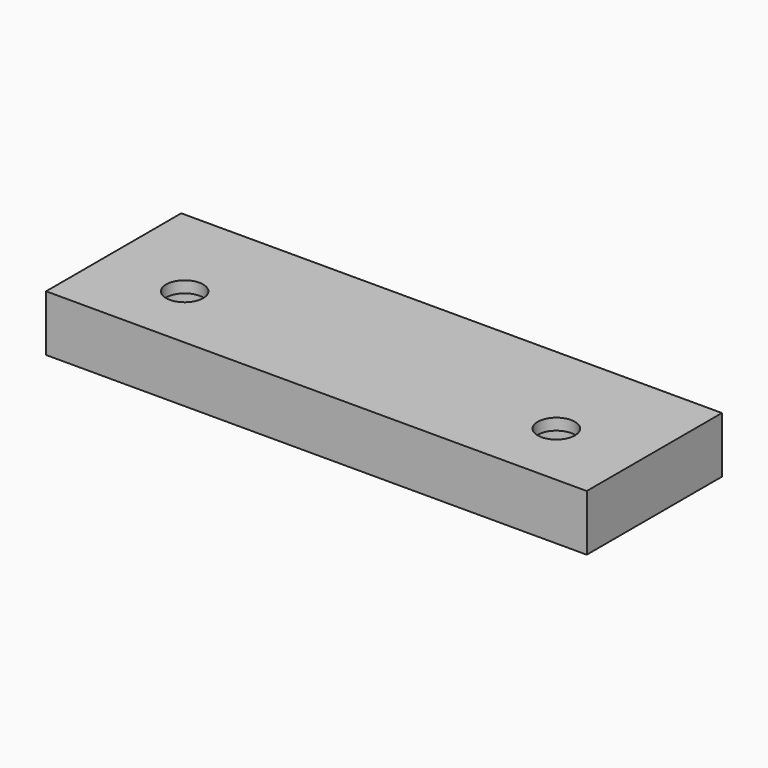
from build123d import *

# Parameters (mm, degrees)
F0_W     = 160
F0_H     = 50
F0_R     = 9
F0_R_2   = 5.5
F1_DEPTH = 16.6
F2_DEPTH = 13.2


with BuildPart() as f1:
    # F0 (on Top) → F1 (new body)
    with BuildSketch(Plane.XY):
        Rectangle(F0_W, F0_H)
        with Locations((-55, -5)):
            Circle(F0_R, mode=Mode.SUBTRACT)
        with Locations((55, -5)):
            Circle(F0_R, mode=Mode.SUBTRACT)
        with Locations((-55, -5)):
            Circle(F0_R)
        with Locations((-55, -5)):
            Circle(F0_R_2, mode=Mode.SUBTRACT)
        with Locations((55, -5)):
            Circle(F0_R)
        with Locations((55, -5)):
            Circle(F0_R_2, mode=Mode.SUBTRACT)
    extrude(amount=F1_DEPTH)

    # F0 (on Top) → F2 (cut)
    with BuildSketch(Plane.XY):
        with Locations((-55, -5)):
            Circle(F0_R)
        with Locations((-55, -5)):
            Circle(F0_R_2, mode=Mode.SUBTRACT)
        with Locations((55, -5)):
            Circle(F0_R)
        with Locations((55, -5)):
            Circle(F0_R_2, mode=Mode.SUBTRACT)
    extrude(amount=F2_DEPTH, mode=Mode.SUBTRACT)


solid = f1.part
